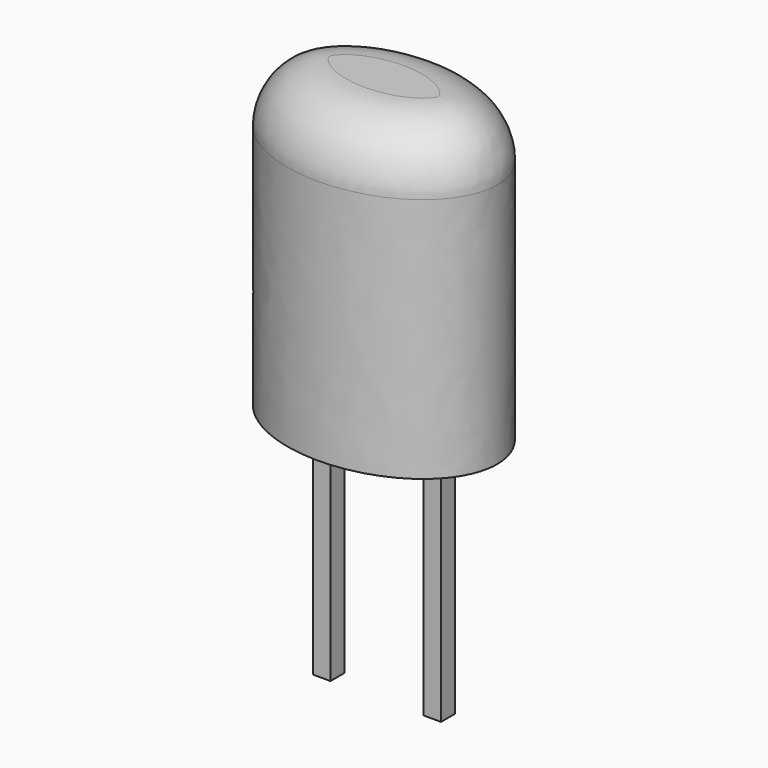
from build123d import *

# Parameters (mm, degrees)
SKETCH002_W  = 0.4
SKETCH002_H  = 0.4
PAD001_DEPTH = 6
PAD_DEPTH    = 7
FILLET_R     = 1.35
SKETCH003_W  = 2.94
SKETCH003_H  = 0.4
PAD002_DEPTH = 1


with BuildPart() as pad001:
    # Sketch002 → Pad001 (new body)
    with BuildSketch(Plane.XY.offset(3.5)):
        Rectangle(SKETCH002_W, SKETCH002_H)
        with Locations((2.54, 0)):
            Rectangle(SKETCH002_W, SKETCH002_H)
    extrude(amount=-PAD001_DEPTH)


with BuildPart() as revolution001:
    # Sketch004 → Revolution001 (revolve)
    with BuildSketch(Plane.XZ):
        Polygon((1.27, 4.125), (0.52, 4.875), (1.27, 4.875), align=None)
    revolve(axis=Axis((1.27, 0, 5.374987), (0, 0, -1)))


with BuildPart() as fillet_body:
    # Sketch001 → Pad (new body)
    with BuildSketch(Plane(origin=(1.27, 0, 3), x_dir=(1, 0, 0), z_dir=(0, 0, 1))):
        with BuildLine():
            add(Edge.make_bspline(
                [(2.6, 0), (2.6, 3.290897), (-1.3, 1.645448), (-5.2, 0), (-1.3, -1.645448), (2.6, -3.290897), (2.6, 0)],
                knots=[0, 0, 0, 2.094395, 2.094395, 4.18879, 4.18879, 6.283185, 6.283185, 6.283185], degree=2, weights=[1, 0.5, 1, 0.5, 1, 0.5, 1]))
        make_face()
    extrude(amount=PAD_DEPTH)

    # Fillet
    fillet_edges = [fillet_body.edges().sort_by_distance(p)[0] for p in [
        (-1.33, -0.000878, 10),
    ]]
    fillet(fillet_edges, radius=FILLET_R)


with BuildPart() as pad002:
    # Sketch003 → Pad002 (new body)
    with BuildSketch(Plane.XY.offset(3.5)):
        with Locations((1.27, 0)):
            Rectangle(SKETCH003_W, SKETCH003_H)
    extrude(amount=PAD002_DEPTH)


solid = Compound([pad001.part, revolution001.part, fillet_body.part, pad002.part])
